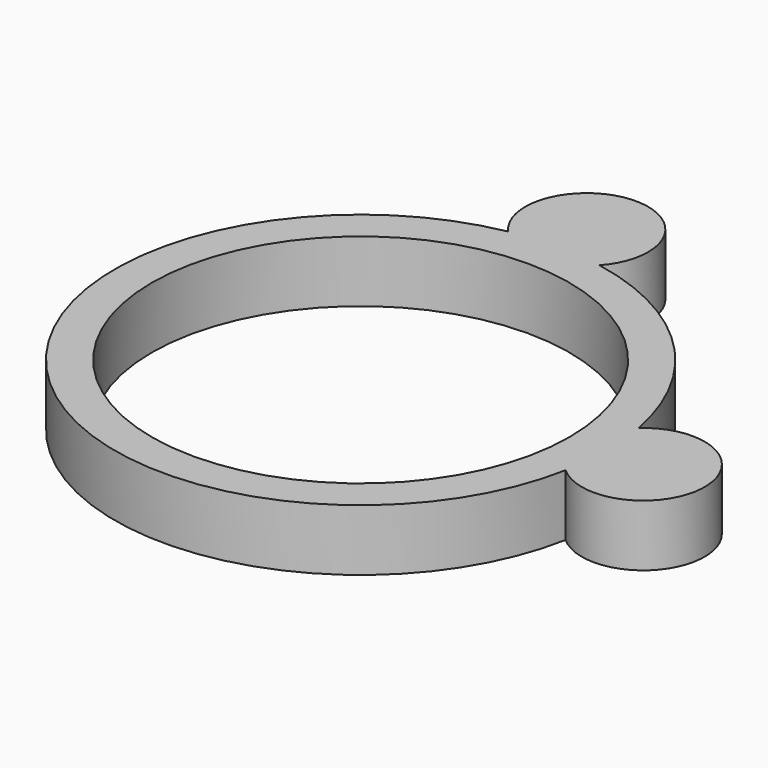
from build123d import *

# Parameters (mm, degrees)
CYLINDER003_R     = 0.5
CYLINDER003_DEPTH = 0.5
CYLINDER002_R     = 0.5
CYLINDER002_DEPTH = 0.5
CYLINDER001_R     = 1.7
CYLINDER001_DEPTH = 0.5
CYLINDER_R        = 2
CYLINDER_DEPTH    = 0.5


with BuildPart() as cilindro003:
    # Cylinder003 → Cylinder003 (new body)
    with BuildSketch(Plane(origin=(0, 2.3, 0), x_dir=(1, 0, 0), z_dir=(0, 0, 1))):
        Circle(CYLINDER003_R)
    extrude(amount=CYLINDER003_DEPTH)


with BuildPart() as cilindro002:
    # Cylinder002 → Cylinder002 (new body)
    with BuildSketch(Plane(origin=(2.3, 0, 0), x_dir=(1, 0, 0), z_dir=(0, 0, 1))):
        Circle(CYLINDER002_R)
    extrude(amount=CYLINDER002_DEPTH)


with BuildPart() as cilindro001:
    # Cylinder001 → Cylinder001 (new body)
    with BuildSketch(Plane.XY):
        Circle(CYLINDER001_R)
    extrude(amount=CYLINDER001_DEPTH)


with BuildPart() as fusion001:
    # Cylinder → Cylinder (new body)
    with BuildSketch(Plane.XY):
        Circle(CYLINDER_R)
    extrude(amount=CYLINDER_DEPTH)

    # Cut: cut Cilindro001
    add(cilindro001.part, mode=Mode.SUBTRACT)

    # Fusion: union Cilindro002
    add(cilindro002.part)

    # Fusion001: union Cilindro003
    add(cilindro003.part)


solid = fusion001.part
